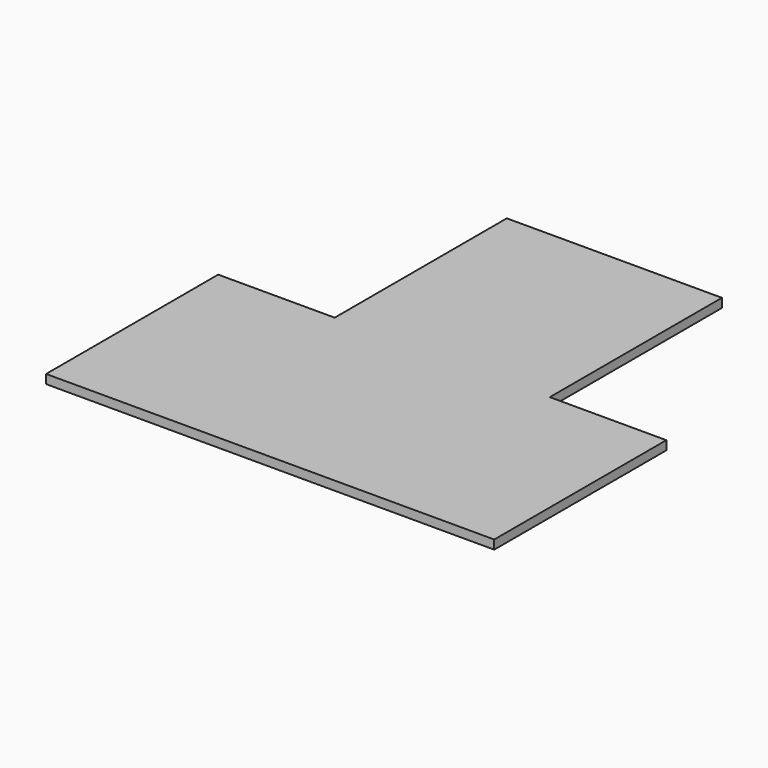
from build123d import *

# Parameters (mm, degrees)
F1_DEPTH = 12.7


with BuildPart() as f1:
    # F0 (on Top) → F1 (new body)
    with BuildSketch(Plane.XY):
        Polygon((0, 304.8), (0, 0), (635, 0), (635, 304.8), (469.9, 304.8), (317.5, 304.8), (165.1, 304.8), align=None)
        Polygon((165.1, 609.6), (165.1, 304.8), (317.5, 304.8), (469.9, 304.8), (469.9, 609.6), align=None)
    extrude(amount=F1_DEPTH)


solid = f1.part
